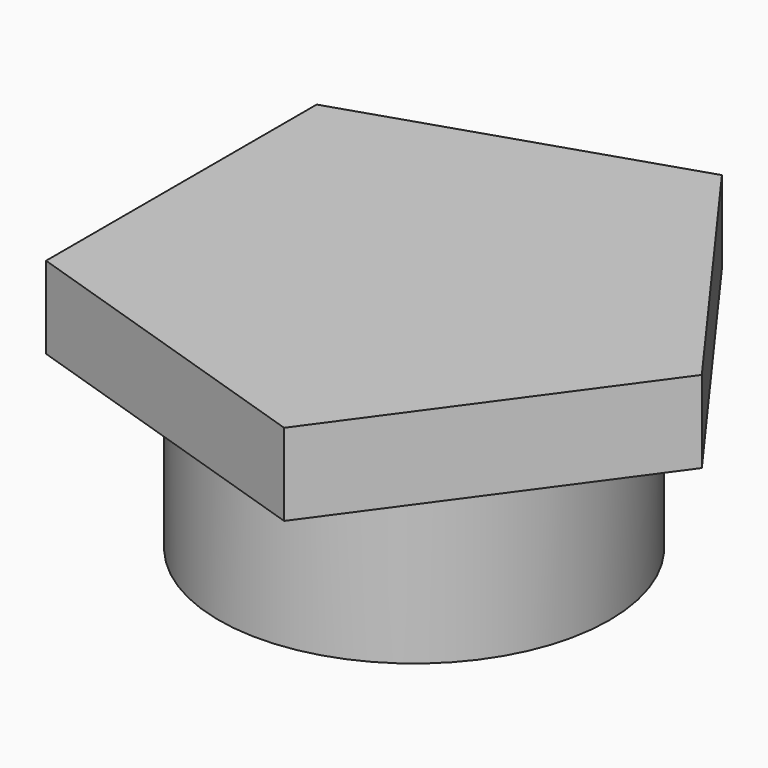
from build123d import *

# Parameters (mm, degrees)
F1_DEPTH = 5
F2_R     = 11.905945
F3_DEPTH = 15


with BuildPart() as f1:
    # F0 (on Top) → F1 (new body)
    with BuildSketch(Plane.XY):
        Polygon((17.539468, 0), (5.419994, 16.681025), (-14.189727, 10.30944), (-14.189727, -10.30944), (5.419994, -16.681025), align=None)
    extrude(amount=F1_DEPTH)

    # F2 (on face) → F3 (join)
    with BuildSketch(Plane.XY.offset(5)):
        Circle(F2_R)
    extrude(amount=-F3_DEPTH)


solid = f1.part
